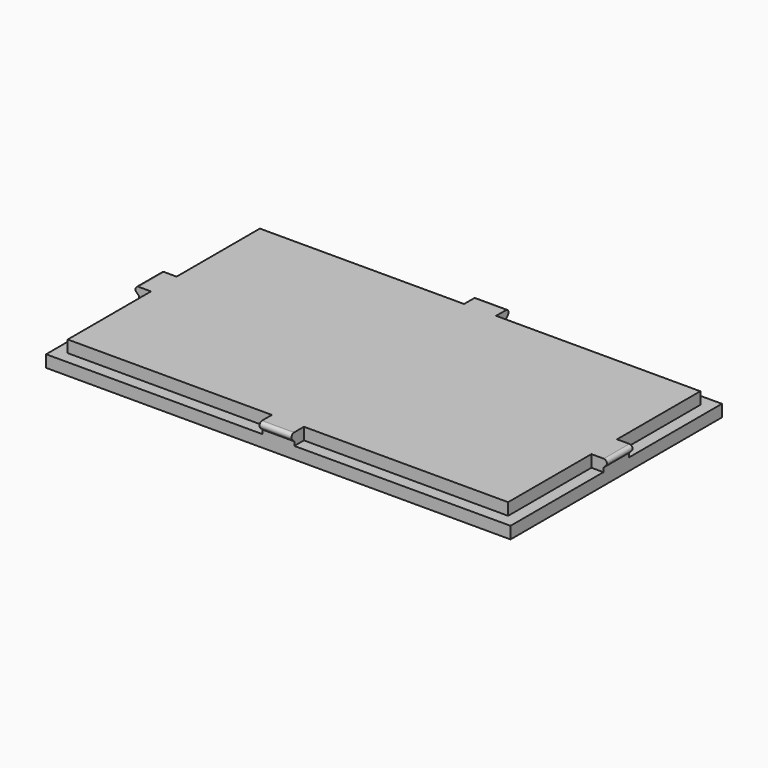
from build123d import *

# Parameters (mm, degrees)
F0_W      = 58
F0_H      = 33
F1_DEPTH  = 1.5
F2_W      = 55
F2_H      = 30
F3_DEPTH  = 1.5
F4_W      = 1.5
F4_H      = 4
F4_W_2    = 4
F4_H_2    = 1.5
F5_DEPTH  = 1.5
F7_DEPTH  = 4
F9_DEPTH  = 4
F11_DEPTH = 4
F13_DEPTH = 4
F14_R     = 0.4


with BuildPart() as f1:
    # F0 (on Top) → F1 (new body)
    with BuildSketch(Plane.XY):
        Rectangle(F0_W, F0_H)
    extrude(amount=F1_DEPTH)

    # F2 (on face) → F3 (join)
    with BuildSketch(Plane.XY.offset(1.5)):
        Rectangle(F2_W, F2_H)
    extrude(amount=F3_DEPTH)

    # F4 (on face) → F5 (join)
    with BuildSketch(Plane.XY.offset(1.5)):
        with Locations((-28.25, 0)):
            Rectangle(F4_W, F4_H)
        with Locations((0, 15.75)):
            Rectangle(F4_W_2, F4_H_2)
        with Locations((28.25, 0)):
            Rectangle(F4_W, F4_H)
        with Locations((0, -15.75)):
            Rectangle(F4_W_2, F4_H_2)
    extrude(amount=F5_DEPTH)

    # F6 (on face) → F7 (join)
    with BuildSketch(Plane(origin=(-2, 0, 0), x_dir=(0, -1, 0), z_dir=(-1, 0, 0))):
        Polygon((17.5, 3), (16.5, 3), (16.5, 2), align=None)
    extrude(amount=-F7_DEPTH)

    # F8 (on face) → F9 (join)
    with BuildSketch(Plane(origin=(0, 2, 0), x_dir=(-1, 0, 0), z_dir=(0, 1, 0))):
        Polygon((30, 3), (29, 3), (29, 2), align=None)
    extrude(amount=-F9_DEPTH)

    # F10 (on face) → F11 (join)
    with BuildSketch(Plane.XZ.offset(2)):
        Polygon((30, 3), (29, 3), (29, 2), align=None)
    extrude(amount=-F11_DEPTH)

    # F12 (on face) → F13 (join)
    with BuildSketch(Plane.YZ.offset(2)):
        Polygon((17.5, 3), (16.5, 3), (16.5, 2), align=None)
    extrude(amount=-F13_DEPTH)

    # F14
    f14_edges = [f1.edges().sort_by_distance(p)[0] for p in [
        (-30, 0, 3),
        (0, 17.5, 3),
        (30, 0, 3),
        (0, -17.5, 3),
    ]]
    fillet(f14_edges, radius=F14_R)


solid = f1.part
